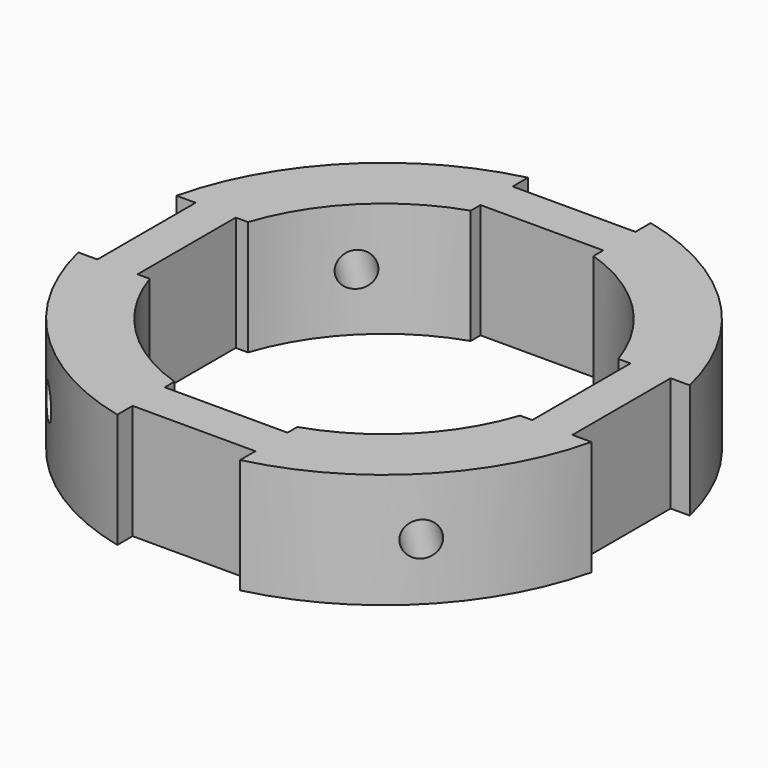
from build123d import *

# Parameters (mm, degrees)
F0_R      = 29.21
F0_R_2    = 21.59
F1_DEPTH  = 12.7
F2_W      = 13.589
F2_H      = 3.556
F2_W_2    = 3.556
F2_H_2    = 13.589
F3_DEPTH  = 25.4
F7_R      = 1.905
F8_DEPTH  = 393.7
F12_R     = 1.905
F13_DEPTH = 38.1


with BuildPart() as f1:
    # F0 (on Top) → F1 (new body)
    with BuildSketch(Plane.XY):
        Circle(F0_R)
        Circle(F0_R_2, mode=Mode.SUBTRACT)
    extrude(amount=F1_DEPTH)

    # F2 (on face) → F3 (cut)
    with BuildSketch(Plane.XY.offset(12.7)):
        with Locations((0, 20.066)):
            Rectangle(F2_W, F2_H)
        with Locations((0, 28.067)):
            Rectangle(F2_W, F2_H)
        with Locations((-20.066, 0)):
            Rectangle(F2_W_2, F2_H_2)
        with Locations((-28.067, 0)):
            Rectangle(F2_W_2, F2_H_2)
        with Locations((0, -20.066)):
            Rectangle(F2_W, F2_H)
        with Locations((0, -28.067)):
            Rectangle(F2_W, F2_H)
        with Locations((20.066, 0)):
            Rectangle(F2_W_2, F2_H_2)
        with Locations((28.067, 0)):
            Rectangle(F2_W_2, F2_H_2)
    extrude(amount=-F3_DEPTH, mode=Mode.SUBTRACT)

    # F7 (on 3pt) → F8 (cut, symmetric)
    with BuildSketch(Plane(origin=(0, 0, 0), x_dir=(0.7071067812, 0.7071067812, 0), z_dir=(0.7071067812, -0.7071067812, 0))):
        with Locations((0, 6.35)):
            Circle(F7_R)
    extrude(amount=F8_DEPTH, both=True, mode=Mode.SUBTRACT)

    # F12 (on 3pt) → F13 (cut, symmetric)
    with BuildSketch(Plane(origin=(0, 0, 0), x_dir=(-0.7071067812, 0.7071067812, 0), z_dir=(0.7071067812, 0.7071067812, 0))):
        with Locations((0, 6.35)):
            Circle(F12_R)
    extrude(amount=F13_DEPTH, both=True, mode=Mode.SUBTRACT)


solid = f1.part
